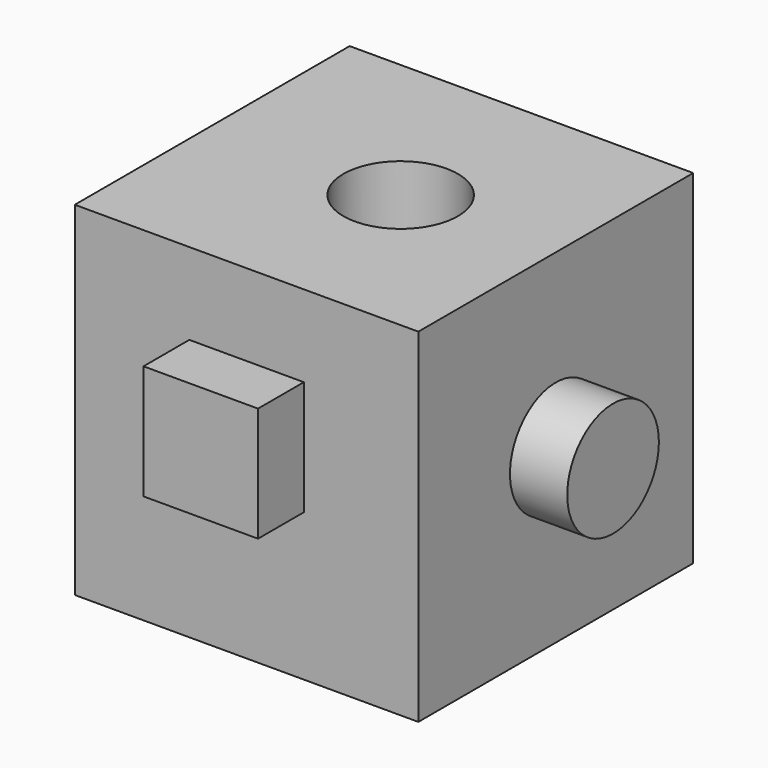
from build123d import *

# Parameters (mm, degrees)
F0_W     = 76.2
F0_H     = 76.2
F1_DEPTH = 76.2
F2_W     = 25.4
F2_H     = 25.4
F3_DEPTH = 12.7
F4_R     = 12.7
F5_DEPTH = 12.7
F7_D     = 25.4
F9_DEPTH = 12.7


with BuildPart() as f1:
    # F0 (on Front) → F1 (new body)
    with BuildSketch(Plane.XZ):
        with Locations((-3.697144, -5.31157)):
            Rectangle(F0_W, F0_H)
    extrude(amount=-F1_DEPTH)

    # F2 (on face) → F3 (join)
    with BuildSketch(Plane.XZ):
        with Locations((-3.697144, 1.963377)):
            Rectangle(F2_W, F2_H)
    extrude(amount=F3_DEPTH)

    # F4 (on face) → F5 (join)
    with BuildSketch(Plane.YZ.offset(34.402856)):
        with Locations((38.1, -5.31157)):
            Circle(F4_R)
    extrude(amount=F5_DEPTH)

    # F7 (through all)
    with Locations(Plane.XY.offset(32.78843)):
        with Locations((0, 38.1)):
            Hole(F7_D / 2)

    # F8 (on face) → F9 (join)
    with BuildSketch(Plane(origin=(-41.797144, 0, 0), x_dir=(0, -1, 0), z_dir=(-1, 0, 0))):
        Polygon((-59.184786, -0.260271), (-31.93216, -26.097179), (-23.183054, 10.422741), align=None)
    extrude(amount=F9_DEPTH)


solid = f1.part
